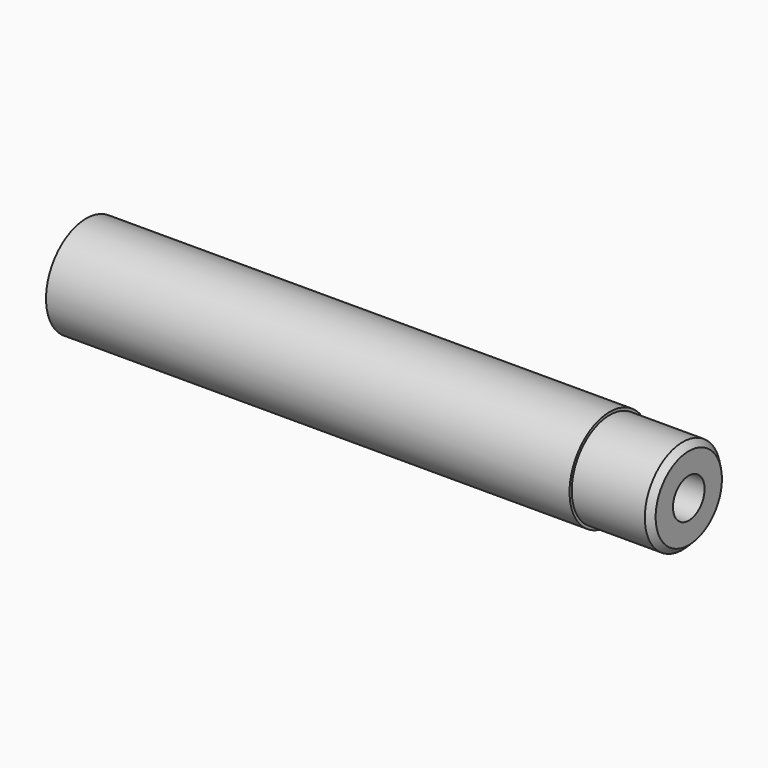
from build123d import *

# Parameters (mm, degrees)
F0_R     = 6
F1_DEPTH = 76.2
F2_SIZE  = 0.762
F4_D     = 5
F4_DEPTH = 16
F4_TIP   = 1.5021515476
F6_R     = 6.35
F7_DEPTH = 66.2


with BuildPart() as f1:
    # F0 (on Right) → F1 (new body)
    with BuildSketch(Plane.YZ):
        Circle(F0_R)
    extrude(amount=F1_DEPTH)

    # F2
    f2_edges = [f1.edges().sort_by_distance(p)[0] for p in [
        (76.2, -6, 0),
    ]]
    chamfer(f2_edges, length=F2_SIZE)

    # F4
    with Locations(Plane.YZ.offset(76.2)):
        with Locations((0, 0)):
            Hole(F4_D / 2, depth=F4_DEPTH)
            with Locations((0, 0, -(F4_DEPTH + F4_TIP / 2))):  # 118° drill point
                Cone(0, F4_D / 2, F4_TIP, mode=Mode.SUBTRACT)

    # F6 (on offset) → F7 (join, through all)
    with BuildSketch(Plane.YZ.offset(66.2)):
        Circle(F6_R)
    extrude(amount=-F7_DEPTH)


solid = f1.part
